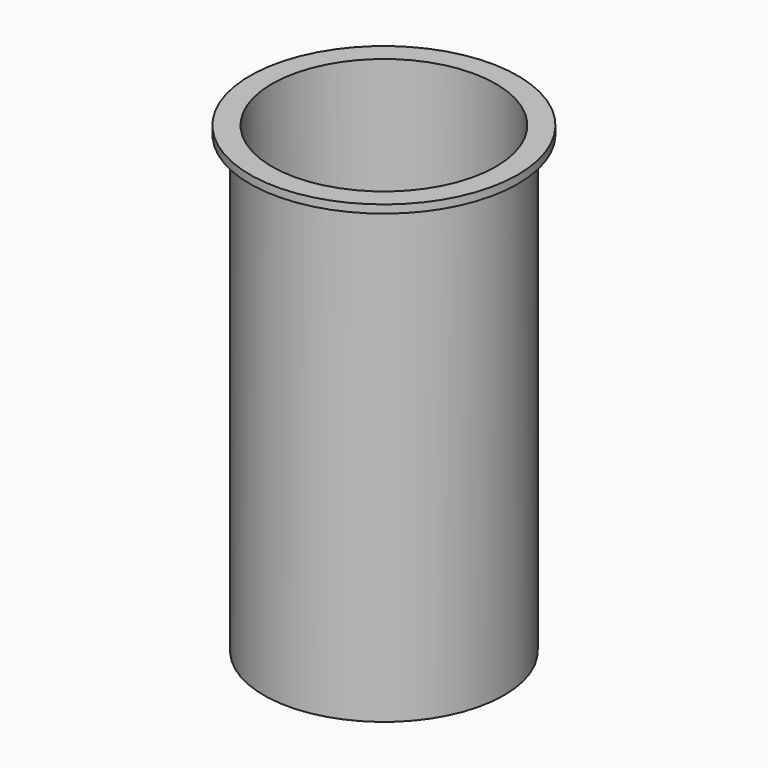
from build123d import *

# Parameters (mm, degrees)
F0_R     = 52.3875
F1_DEPTH = 3.175
F2_R     = 46.99
F3_DEPTH = 177.8
F5_R     = 43.815
F6_DEPTH = 177.8


with BuildPart() as f1:
    # F0 (on Top) → F1 (new body)
    with BuildSketch(Plane.XY):
        Circle(F0_R)
    extrude(amount=F1_DEPTH)

    # F2 (on Top) → F3 (join)
    with BuildSketch(Plane.XY):
        Circle(F2_R)
    extrude(amount=-F3_DEPTH)

    # F5 (on offset) → F6 (cut)
    with BuildSketch(Plane.XY.offset(3.175)):
        Circle(F5_R)
    extrude(amount=-F6_DEPTH, mode=Mode.SUBTRACT)


solid = f1.part
